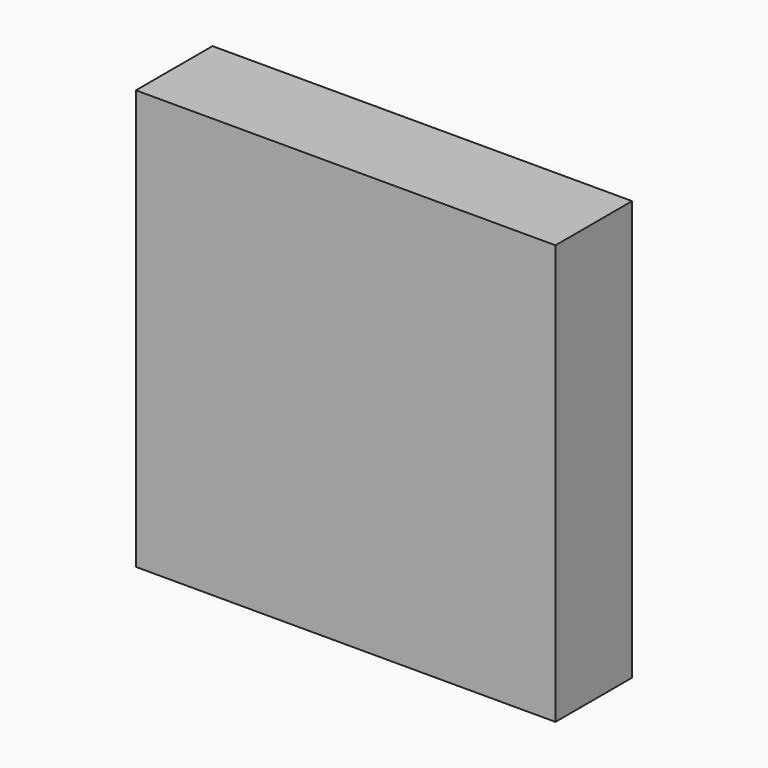
from build123d import *

# Parameters (mm, degrees)
F3_R     = 300
F4_DEPTH = 500
F6_DEPTH = 600
F7_W     = 460
F7_H     = 460
F8_DEPTH = 105


with BuildPart() as f1:
    # F0 (on Front) → F1 (revolve)
    with BuildSketch(Plane.XZ):
        with BuildLine():
            Line((-284, 0), (284, 0))
            ThreePointArc((284, 0), (0, 284), (-284, 0))
        make_face()
    revolve(axis=Axis((0, 0, 0), (1, 0, 0)))

    # F3 (on offset) → F4 (cut)
    with BuildSketch(Plane.XZ.offset(200)):
        Circle(F3_R)
    extrude(amount=-F4_DEPTH, mode=Mode.SUBTRACT)

    # F5 (on Front) → F6 (cut)
    with BuildSketch(Plane.XZ):
        with BuildLine():
            ThreePointArc((-20, 59.213596), (0, 62.5), (20, 59.213596))
            Line((20, 59.213596), (20, 224.58975))
            Line((20, 224.58975), (-20, 224.58975))
            Line((-20, 224.58975), (-20, 59.213596))
        make_face()
        with BuildLine():
            ThreePointArc((-20, 59.213596), (-36.443449, -50.77524), (62.5, 0))
            ThreePointArc((62.5, 0), (50.77524, 36.443449), (20, 59.213596))
            Line((20, 59.213596), (20, 25.99727))
            Line((20, 25.99727), (-20, 25.99727))
            Line((-20, 25.99727), (-20, 59.213596))
        make_face()
        with BuildLine():
            Line((20, 25.99727), (20, 59.213596))
            ThreePointArc((20, 59.213596), (0, 62.5), (-20, 59.213596))
            Line((-20, 59.213596), (-20, 25.99727))
            Line((-20, 25.99727), (20, 25.99727))
        make_face()
    extrude(amount=F6_DEPTH, mode=Mode.SUBTRACT)


with BuildPart() as f8:
    # F7 (on offset) → F8 (new body)
    with BuildSketch(Plane.XZ.offset(200)):
        Rectangle(F7_W, F7_H)
    extrude(amount=F8_DEPTH)

    # F9: cut F1
    add(f1.part, mode=Mode.SUBTRACT)


solid = f8.part
